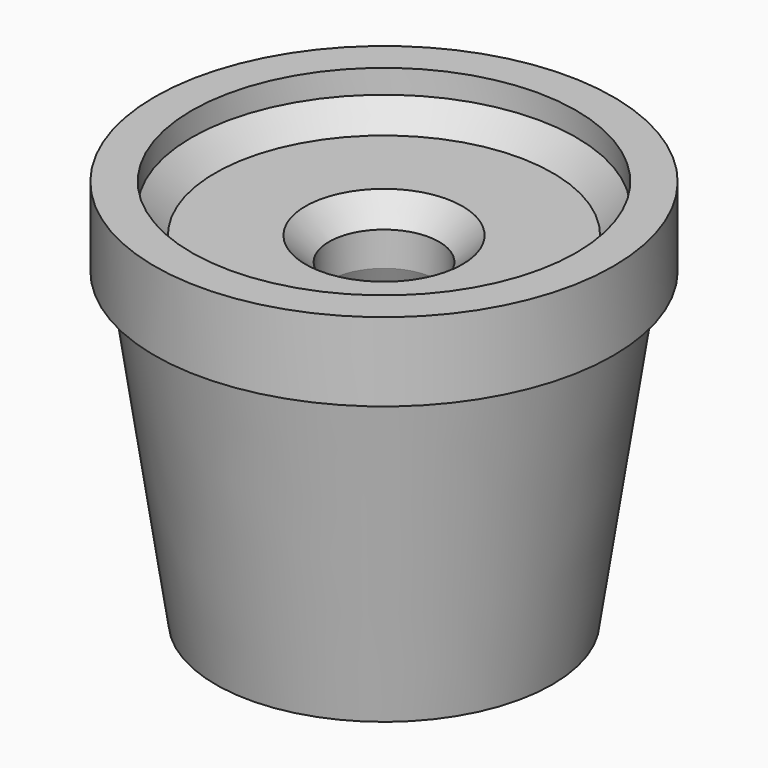
from build123d import *

# Parameters (mm, degrees)
F2_SIZE = 1.5


with BuildPart() as f1:
    # F0 (on Front) → F1 (revolve)
    with BuildSketch(Plane.XZ):
        Polygon((12.238895, 27.277633), (3.5, 27.277633), (3.5, 23.60883), (8, 12.800195), (3.5, 12.800195), (3.5, 12.300195), (8, 12.300195), (8, 7.397607), (3.5, 7.397607), (3.5, 6.897607), (9.249274, 6.897607), (9.249274, 5.594438), (10.705757, 5.594438), (13.618723, 25.284176), (14.591051, 25.284176), (14.591051, 30.284176), (12.238895, 30.284176), align=None)
    revolve(axis=Axis((0, 0, 16.016259), (0, 0, -1)))

    # F2
    f2_edges = [f1.edges().sort_by_distance(p)[0] for p in [
        (-3.5, 0, 27.277633),
        (-12.238895, 0, 27.277633),
    ]]
    chamfer(f2_edges, length=F2_SIZE)


solid = f1.part
